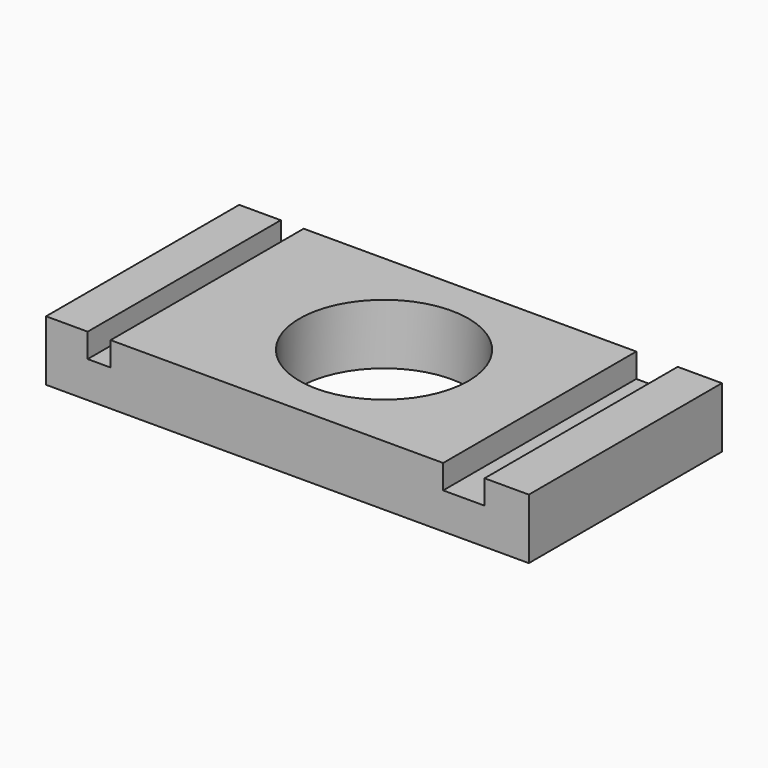
from build123d import *

# Parameters (mm, degrees)
F0_W     = 200
F0_H     = 100
F0_R     = 35
F1_DEPTH = 25
F2_W     = 9.490147
F2_H     = 100
F2_W_2   = 17.155282
F3_DEPTH = 10


with BuildPart() as f1:
    # F0 (on Top) → F1 (new body)
    with BuildSketch(Plane.XY):
        Rectangle(F0_W, F0_H)
        Circle(F0_R, mode=Mode.SUBTRACT)
    extrude(amount=F1_DEPTH)

    # F2 (on face) → F3 (cut)
    with BuildSketch(Plane.XY.offset(25)):
        with Locations((-78.019992, 0)):
            Rectangle(F2_W, F2_H)
        with Locations((73.092412, 0)):
            Rectangle(F2_W_2, F2_H)
    extrude(amount=-F3_DEPTH, mode=Mode.SUBTRACT)


solid = f1.part
